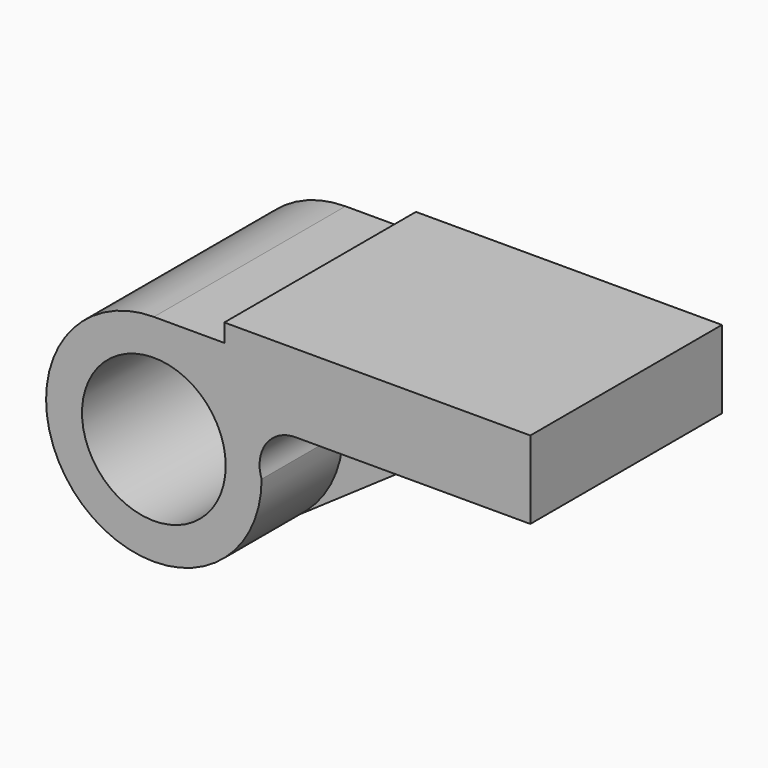
from build123d import *

# Parameters (mm, degrees)
F0_R     = 19.05
F1_DEPTH = 31.75
F2_DEPTH = 4.7625


with BuildPart() as f1:
    # F0 (on Front) → F1 (new body, symmetric)
    with BuildSketch(Plane.XZ):
        with BuildLine():
            Line((18.686079, 28.575), (0, 28.575))
            ThreePointArc((0, 28.575), (-27.280552, -8.503063), (16.235749, -23.514487))
            ThreePointArc((16.235749, -23.514487), (25.302837, -13.27769), (28.575, 0))
            ThreePointArc((28.575, 0), (29.778126, 8.674261), (37.555256, 12.7))
            Line((37.555256, 12.7), (68.685752, 12.7))
            Line((68.685752, 12.7), (99.816247, 12.7))
            Line((99.816247, 12.7), (99.816247, 33.3502))
            Line((99.816247, 33.3502), (18.686079, 33.3502))
            Line((18.686079, 33.3502), (18.686079, 28.575))
        make_face()
        Circle(F0_R, mode=Mode.SUBTRACT)
    extrude(amount=F1_DEPTH, both=True)

    # F0 (on Front) → F2 (join, symmetric)
    with BuildSketch(Plane.XZ):
        with BuildLine():
            ThreePointArc((28.575, 0), (25.302837, -13.27769), (16.235749, -23.514487))
            Line((16.235749, -23.514487), (68.685752, 12.7))
            Line((68.685752, 12.7), (37.555256, 12.7))
            ThreePointArc((37.555256, 12.7), (29.778126, 8.674261), (28.575, 0))
        make_face()
    extrude(amount=F2_DEPTH, both=True)


solid = f1.part
